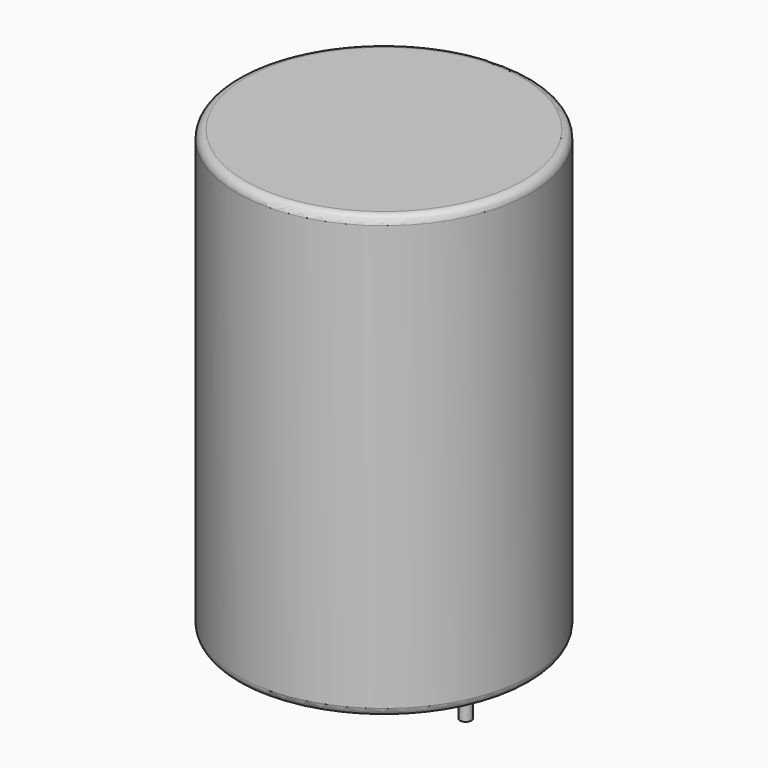
from build123d import *

# Parameters (mm, degrees)
SKETCH001_R       = 0.35
PAD001_DEPTH      = 13.5
PAD001_DEPTH_BACK = 3.5
SKETCH_R          = 9
PAD_DEPTH         = 27
FILLET_R          = 0.5


with BuildPart() as pad001:
    # Sketch001 → Pad001 (new body, two sides)
    with BuildSketch(Plane.XY.offset(0.5)) as pad001_sk:
        Circle(SKETCH001_R)
        with Locations((10, 0)):
            Circle(SKETCH001_R)
    extrude(amount=PAD001_DEPTH)
    extrude(pad001_sk.sketch, amount=-PAD001_DEPTH_BACK)


with BuildPart() as l_radial_d18_0mm_p10_00mm:
    # Sketch → Pad (new body)
    with BuildSketch(Plane.XY.offset(0.1)):
        with Locations((5, 0)):
            Circle(SKETCH_R)
    extrude(amount=PAD_DEPTH)

    # Fillet
    fillet_edges = [l_radial_d18_0mm_p10_00mm.edges().sort_by_distance(p)[0] for p in [
        (-4, 0, 0.1),
        (-4, 0, 27.1),
    ]]
    fillet(fillet_edges, radius=FILLET_R)

    add(pad001.part)


solid = l_radial_d18_0mm_p10_00mm.part
